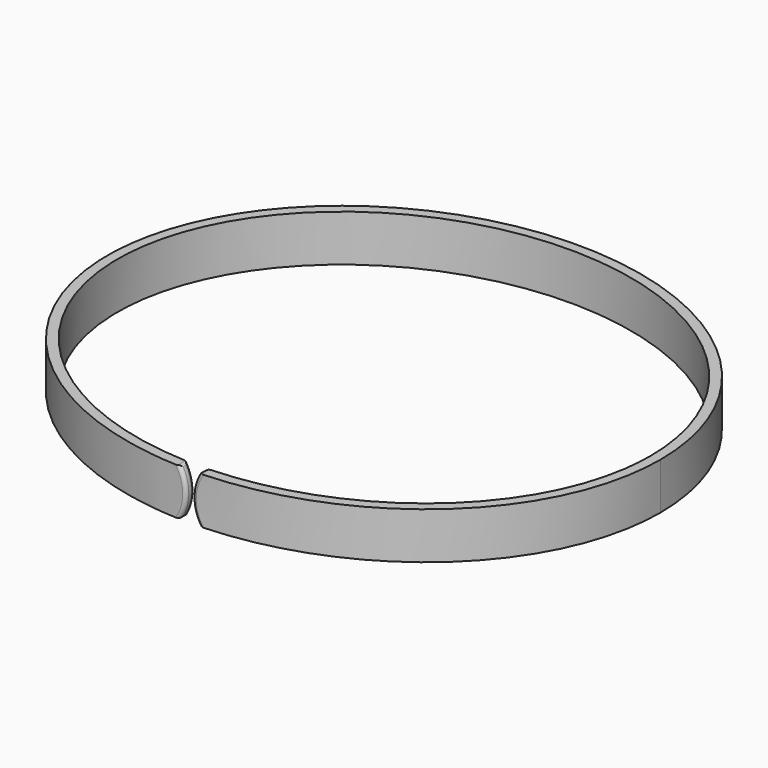
from build123d import *

# Parameters (mm, degrees)
F1_DEPTH = 7
F3_DEPTH = 36.5010001
F4_R     = 0.5


with BuildPart() as f1:
    # F0 (on Top) → F1 (new body)
    with BuildSketch(Plane.XY):
        with BuildLine():
            add(Edge.make_bspline(
                [(41.5, 0), (41.5, 63.2198544763), (-20.75, 31.6099272381), (-83, 0), (-20.75, -31.6099272381), (41.5, -63.2198544763), (41.5, 0)],
                knots=[0, 0, 0, 2.0943951024, 2.0943951024, 4.1887902048, 4.1887902048, 6.2831853072, 6.2831853072, 6.2831853072], degree=2, weights=[1, 0.5, 1, 0.5, 1, 0.5, 1]))
        make_face()
        with BuildLine():
            add(Edge.make_bspline(
                [(40, 0), (40, 60.6217782649), (-20, 30.3108891325), (-80, 0), (-20, -30.3108891325), (40, -60.6217782649), (40, 0)],
                knots=[0, 0, 0, 2.0943951024, 2.0943951024, 4.1887902048, 4.1887902048, 6.2831853072, 6.2831853072, 6.2831853072], degree=2, weights=[1, 0.5, 1, 0.5, 1, 0.5, 1]))
        make_face(mode=Mode.SUBTRACT)
    extrude(amount=F1_DEPTH)

    # F2 (on Front) → F3 (cut, through all)
    with BuildSketch(Plane.XZ):
        with BuildLine():
            Line((1.5, 7), (-1.5, 7))
            ThreePointArc((-1.5, 7), (-0.5, 3.5), (-1.5, 0))
            Line((-1.5, 0), (1.5, 0))
            ThreePointArc((1.5, 0), (0.5, 3.5), (1.5, 7))
        make_face()
    extrude(amount=F3_DEPTH, mode=Mode.SUBTRACT)

    # F4
    f4_edges = [f1.edges().sort_by_distance(p)[0] for p in [
        (-0.5, -34.997266, 3.5),
        (-1.5, -35.725766, 0),
        (-0.5, -36.497351, 3.5),
        (-1.5, -35.725766, 7),
        (0.5, -34.997266, 3.5),
        (1.5, -35.725766, 7),
        (0.5, -36.497351, 3.5),
        (1.5, -35.725766, 0),
    ]]
    fillet(f4_edges, radius=F4_R)


solid = f1.part
